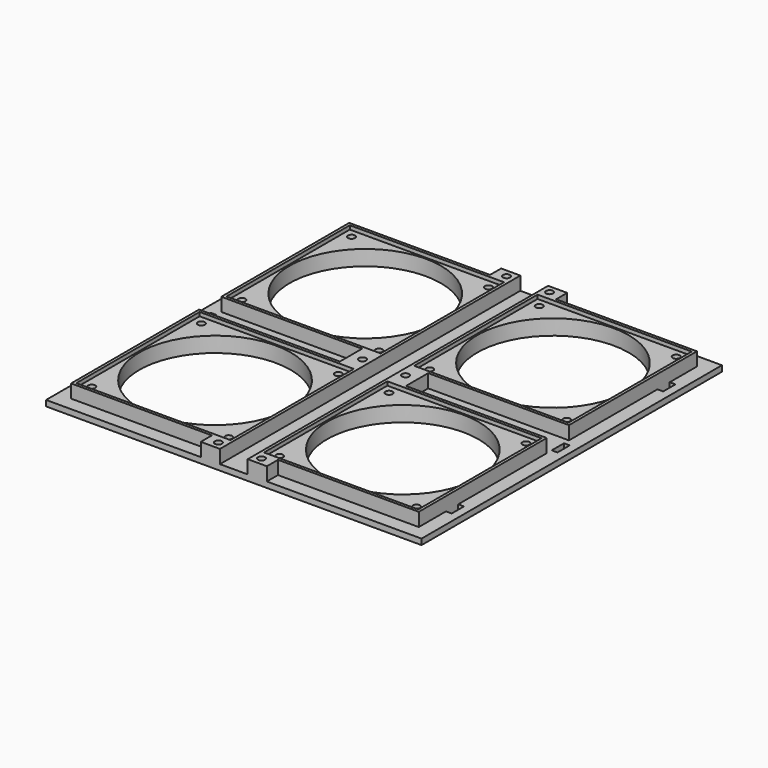
from build123d import *

# Parameters (mm, degrees)
SKETCH009_W     = 98
SKETCH009_H     = 98
PAD003_DEPTH    = 3
SKETCH006_W     = 83.5
SKETCH006_H     = 83.5
PAD002_DEPTH    = 7
SKETCH011_R     = 39.5
POCKET007_DEPTH = 10
SKETCH007_W     = 80.5
SKETCH007_H     = 80.5
POCKET004_DEPTH = 2
SKETCH010_R     = 1.85
POCKET006_DEPTH = 8
SKETCH008_R     = 2.75
POCKET005_DEPTH = 5
CHAMFER001_SIZE = 0.5
SKETCH015_W     = 98
SKETCH015_H     = 98
PAD005_DEPTH    = 3
SKETCH012_W     = 83.5
SKETCH012_H     = 83.5
PAD004_DEPTH    = 7
SKETCH017_R     = 39.5
POCKET011_DEPTH = 10
SKETCH013_W     = 80.5
SKETCH013_H     = 80.5
POCKET008_DEPTH = 2
SKETCH016_R     = 1.85
POCKET010_DEPTH = 8
SKETCH014_R     = 2.75
POCKET009_DEPTH = 5
CHAMFER002_SIZE = 0.5
SKETCH021_W     = 98
SKETCH021_H     = 98
PAD007_DEPTH    = 3
SKETCH018_W     = 83.5
SKETCH018_H     = 83.5
PAD006_DEPTH    = 7
SKETCH023_R     = 39.5
POCKET015_DEPTH = 10
SKETCH019_W     = 80.5
SKETCH019_H     = 80.5
POCKET012_DEPTH = 2
SKETCH022_R     = 1.85
POCKET014_DEPTH = 8
SKETCH020_R     = 2.75
POCKET013_DEPTH = 5
CHAMFER003_SIZE = 0.5
SKETCH_W        = 98
SKETCH_H        = 98
PAD_DEPTH       = 3
SKETCH001_W     = 83.5
SKETCH001_H     = 83.5
PAD001_DEPTH    = 7
SKETCH002_R     = 39.5
POCKET_DEPTH    = 10
SKETCH003_W     = 80.5
SKETCH003_H     = 80.5
POCKET001_DEPTH = 2
SKETCH004_R     = 1.85
POCKET002_DEPTH = 8
SKETCH005_R     = 2.75
POCKET003_DEPTH = 5
CHAMFER_SIZE    = 0.5
SKETCH024_W     = 3
SKETCH024_H     = 8
POCKET016_DEPTH = 5
SKETCH025_W     = 10
SKETCH025_H     = 7
PAD008_DEPTH    = 14.5
SKETCH026_W     = 10
SKETCH026_H     = 7
PAD009_DEPTH    = 7.25
SKETCH027_W     = 10
SKETCH027_H     = 7
PAD010_DEPTH    = 7.25
SKETCH028_R     = 1.85
POCKET017_DEPTH = 10
SKETCH029_R     = 2.75
POCKET018_DEPTH = 5
CHAMFER004_SIZE = 0.5
CHAMFER005_SIZE = 0.8


with BuildPart() as body001:
    # Sketch009 → Pad003 (new body)
    with BuildSketch(Plane.XY):
        Rectangle(SKETCH009_W, SKETCH009_H)
    extrude(amount=PAD003_DEPTH)

    # Sketch006 (on Face6 of Pad003) → Pad002 (join)
    with BuildSketch(Plane.XY.offset(3)):
        Rectangle(SKETCH006_W, SKETCH006_H)
    extrude(amount=PAD002_DEPTH)

    # Sketch011 (on Face11 of Pad002) → Pocket007 (cut)
    with BuildSketch(Plane.XY.offset(10)):
        Circle(SKETCH011_R)
    extrude(amount=-POCKET007_DEPTH, mode=Mode.SUBTRACT)

    # Sketch007 (on Face12 of Pocket007) → Pocket004 (cut)
    with BuildSketch(Plane.XY.offset(10)):
        Rectangle(SKETCH007_W, SKETCH007_H)
    extrude(amount=-POCKET004_DEPTH, mode=Mode.SUBTRACT)

    # Sketch010 (on Face12 of Pocket004) → Pocket006 (cut)
    with BuildSketch(Plane.XY.offset(8)):
        with Locations((-35.75, 35.75)):
            Circle(SKETCH010_R)
        with Locations((35.75, 35.75)):
            Circle(SKETCH010_R)
        with Locations((35.75, -35.75)):
            Circle(SKETCH010_R)
        with Locations((-35.75, -35.75)):
            Circle(SKETCH010_R)
    extrude(amount=-POCKET006_DEPTH, mode=Mode.SUBTRACT)

    # Sketch008 (on Face4 of Pocket006) → Pocket005 (cut)
    with BuildSketch(Plane(origin=(0, 0, 0), x_dir=(1, 0, 0), z_dir=(0, 0, -1))):
        with Locations((-35.75, 35.75)):
            Circle(SKETCH008_R)
        with Locations((35.75, 35.75)):
            Circle(SKETCH008_R)
        with Locations((35.75, -35.75)):
            Circle(SKETCH008_R)
        with Locations((-35.75, -35.75)):
            Circle(SKETCH008_R)
    extrude(amount=-POCKET005_DEPTH, mode=Mode.SUBTRACT)

    # Chamfer001
    chamfer001_edges = [body001.edges().sort_by_distance(p)[0] for p in [
        (33, 35.75, 0),
        (33, -35.75, 0),
        (-38.5, -35.75, 0),
        (-38.5, 35.75, 0),
    ]]
    chamfer(chamfer001_edges, length=CHAMFER001_SIZE)


with BuildPart() as body001_1:
    # Body001 placement: moved
    add(body001.part.moved(Location((98, 0, 0))))


with BuildPart() as body002:
    # Sketch015 → Pad005 (new body)
    with BuildSketch(Plane.XY):
        Rectangle(SKETCH015_W, SKETCH015_H)
    extrude(amount=PAD005_DEPTH)

    # Sketch012 (on Face6 of Pad005) → Pad004 (join)
    with BuildSketch(Plane.XY.offset(3)):
        Rectangle(SKETCH012_W, SKETCH012_H)
    extrude(amount=PAD004_DEPTH)

    # Sketch017 (on Face11 of Pad004) → Pocket011 (cut)
    with BuildSketch(Plane.XY.offset(10)):
        Circle(SKETCH017_R)
    extrude(amount=-POCKET011_DEPTH, mode=Mode.SUBTRACT)

    # Sketch013 (on Face12 of Pocket011) → Pocket008 (cut)
    with BuildSketch(Plane.XY.offset(10)):
        Rectangle(SKETCH013_W, SKETCH013_H)
    extrude(amount=-POCKET008_DEPTH, mode=Mode.SUBTRACT)

    # Sketch016 (on Face12 of Pocket008) → Pocket010 (cut)
    with BuildSketch(Plane.XY.offset(8)):
        with Locations((-35.75, 35.75)):
            Circle(SKETCH016_R)
        with Locations((35.75, 35.75)):
            Circle(SKETCH016_R)
        with Locations((35.75, -35.75)):
            Circle(SKETCH016_R)
        with Locations((-35.75, -35.75)):
            Circle(SKETCH016_R)
    extrude(amount=-POCKET010_DEPTH, mode=Mode.SUBTRACT)

    # Sketch014 (on Face4 of Pocket010) → Pocket009 (cut)
    with BuildSketch(Plane(origin=(0, 0, 0), x_dir=(1, 0, 0), z_dir=(0, 0, -1))):
        with Locations((-35.75, 35.75)):
            Circle(SKETCH014_R)
        with Locations((35.75, 35.75)):
            Circle(SKETCH014_R)
        with Locations((35.75, -35.75)):
            Circle(SKETCH014_R)
        with Locations((-35.75, -35.75)):
            Circle(SKETCH014_R)
    extrude(amount=-POCKET009_DEPTH, mode=Mode.SUBTRACT)

    # Chamfer002
    chamfer002_edges = [body002.edges().sort_by_distance(p)[0] for p in [
        (33, 35.75, 0),
        (33, -35.75, 0),
        (-38.5, -35.75, 0),
        (-38.5, 35.75, 0),
    ]]
    chamfer(chamfer002_edges, length=CHAMFER002_SIZE)


with BuildPart() as body002_1:
    # Body002 placement: moved
    add(body002.part.moved(Location((0, 98, 0))))


with BuildPart() as body003:
    # Sketch021 → Pad007 (new body)
    with BuildSketch(Plane.XY):
        Rectangle(SKETCH021_W, SKETCH021_H)
    extrude(amount=PAD007_DEPTH)

    # Sketch018 (on Face6 of Pad007) → Pad006 (join)
    with BuildSketch(Plane.XY.offset(3)):
        Rectangle(SKETCH018_W, SKETCH018_H)
    extrude(amount=PAD006_DEPTH)

    # Sketch023 (on Face11 of Pad006) → Pocket015 (cut)
    with BuildSketch(Plane.XY.offset(10)):
        Circle(SKETCH023_R)
    extrude(amount=-POCKET015_DEPTH, mode=Mode.SUBTRACT)

    # Sketch019 (on Face12 of Pocket015) → Pocket012 (cut)
    with BuildSketch(Plane.XY.offset(10)):
        Rectangle(SKETCH019_W, SKETCH019_H)
    extrude(amount=-POCKET012_DEPTH, mode=Mode.SUBTRACT)

    # Sketch022 (on Face12 of Pocket012) → Pocket014 (cut)
    with BuildSketch(Plane.XY.offset(8)):
        with Locations((-35.75, 35.75)):
            Circle(SKETCH022_R)
        with Locations((35.75, 35.75)):
            Circle(SKETCH022_R)
        with Locations((35.75, -35.75)):
            Circle(SKETCH022_R)
        with Locations((-35.75, -35.75)):
            Circle(SKETCH022_R)
    extrude(amount=-POCKET014_DEPTH, mode=Mode.SUBTRACT)

    # Sketch020 (on Face4 of Pocket014) → Pocket013 (cut)
    with BuildSketch(Plane(origin=(0, 0, 0), x_dir=(1, 0, 0), z_dir=(0, 0, -1))):
        with Locations((-35.75, 35.75)):
            Circle(SKETCH020_R)
        with Locations((35.75, 35.75)):
            Circle(SKETCH020_R)
        with Locations((35.75, -35.75)):
            Circle(SKETCH020_R)
        with Locations((-35.75, -35.75)):
            Circle(SKETCH020_R)
    extrude(amount=-POCKET013_DEPTH, mode=Mode.SUBTRACT)

    # Chamfer003
    chamfer003_edges = [body003.edges().sort_by_distance(p)[0] for p in [
        (33, 35.75, 0),
        (33, -35.75, 0),
        (-38.5, -35.75, 0),
        (-38.5, 35.75, 0),
    ]]
    chamfer(chamfer003_edges, length=CHAMFER003_SIZE)


with BuildPart() as body003_1:
    # Body003 placement: moved
    add(body003.part.moved(Location((98, 98, 0))))


with BuildPart() as body004:
    # Sketch → Pad (new body)
    with BuildSketch(Plane.XY):
        Rectangle(SKETCH_W, SKETCH_H)
    extrude(amount=PAD_DEPTH)

    # Sketch001 (on Face6 of Pad) → Pad001 (join)
    with BuildSketch(Plane.XY.offset(3)):
        Rectangle(SKETCH001_W, SKETCH001_H)
    extrude(amount=PAD001_DEPTH)

    # Sketch002 (on Face11 of Pad001) → Pocket (cut)
    with BuildSketch(Plane.XY.offset(10)):
        Circle(SKETCH002_R)
    extrude(amount=-POCKET_DEPTH, mode=Mode.SUBTRACT)

    # Sketch003 (on Face12 of Pocket) → Pocket001 (cut)
    with BuildSketch(Plane.XY.offset(10)):
        Rectangle(SKETCH003_W, SKETCH003_H)
    extrude(amount=-POCKET001_DEPTH, mode=Mode.SUBTRACT)

    # Sketch004 (on Face12 of Pocket001) → Pocket002 (cut)
    with BuildSketch(Plane.XY.offset(8)):
        with Locations((-35.75, 35.75)):
            Circle(SKETCH004_R)
        with Locations((35.75, 35.75)):
            Circle(SKETCH004_R)
        with Locations((35.75, -35.75)):
            Circle(SKETCH004_R)
        with Locations((-35.75, -35.75)):
            Circle(SKETCH004_R)
    extrude(amount=-POCKET002_DEPTH, mode=Mode.SUBTRACT)

    # Sketch005 (on Face4 of Pocket002) → Pocket003 (cut)
    with BuildSketch(Plane(origin=(0, 0, 0), x_dir=(1, 0, 0), z_dir=(0, 0, -1))):
        with Locations((-35.75, 35.75)):
            Circle(SKETCH005_R)
        with Locations((35.75, 35.75)):
            Circle(SKETCH005_R)
        with Locations((35.75, -35.75)):
            Circle(SKETCH005_R)
        with Locations((-35.75, -35.75)):
            Circle(SKETCH005_R)
    extrude(amount=-POCKET003_DEPTH, mode=Mode.SUBTRACT)

    # Chamfer
    chamfer_edges = [body004.edges().sort_by_distance(p)[0] for p in [
        (33, 35.75, 0),
        (33, -35.75, 0),
        (-38.5, -35.75, 0),
        (-38.5, 35.75, 0),
    ]]
    chamfer(chamfer_edges, length=CHAMFER_SIZE)

    # Fusion: union Body001, Body002, Body003
    add(body001_1.part)
    add(body002_1.part)
    add(body003_1.part)

    # Sketch024 (on Face35 of BaseFeature) → Pocket016 (cut)
    with BuildSketch(Plane.XY.offset(3)):
        with Locations((-43.25, -20)):
            Rectangle(SKETCH024_W, SKETCH024_H)
        with Locations((141.25, -20)):
            Rectangle(SKETCH024_W, SKETCH024_H)
        with Locations((141.25, 49)):
            Rectangle(SKETCH024_W, SKETCH024_H)
        with Locations((-43.25, 49)):
            Rectangle(SKETCH024_W, SKETCH024_H)
        with Locations((-43.25, 118)):
            Rectangle(SKETCH024_W, SKETCH024_H)
        with Locations((141.25, 118)):
            Rectangle(SKETCH024_W, SKETCH024_H)
    extrude(amount=-POCKET016_DEPTH, mode=Mode.SUBTRACT)

    # Sketch025 (on Face98 of Pocket016) → Pad008 (join)
    with BuildSketch(Plane(origin=(0, 41.75, 0), x_dir=(-1, 0, 0), z_dir=(0, 1, 0))):
        with Locations((-61.25, 6.5)):
            Rectangle(SKETCH025_W, SKETCH025_H)
        with Locations((-36.75, 6.5)):
            Rectangle(SKETCH025_W, SKETCH025_H)
    extrude(amount=PAD008_DEPTH)

    # Sketch026 (on Face56 of Pad008) → Pad009 (join)
    with BuildSketch(Plane.XZ.offset(41.75)):
        with Locations((36.75, 6.5)):
            Rectangle(SKETCH026_W, SKETCH026_H)
        with Locations((61.25, 6.5)):
            Rectangle(SKETCH026_W, SKETCH026_H)
    extrude(amount=PAD009_DEPTH)

    # Sketch027 (on Face92 of Pad009) → Pad010 (join)
    with BuildSketch(Plane(origin=(0, 139.75, 0), x_dir=(-1, 0, 0), z_dir=(0, 1, 0))):
        with Locations((-61.25, 6.5)):
            Rectangle(SKETCH027_W, SKETCH027_H)
        with Locations((-36.75, 6.5)):
            Rectangle(SKETCH027_W, SKETCH027_H)
    extrude(amount=PAD010_DEPTH)

    # Sketch028 (on Face161 of Pad010) → Pocket017 (cut)
    with BuildSketch(Plane.XY.offset(10)):
        with Locations((37.75, -45)):
            Circle(SKETCH028_R)
        with Locations((60.25, -45)):
            Circle(SKETCH028_R)
        with Locations((37.75, 143)):
            Circle(SKETCH028_R)
        with Locations((60.25, 143)):
            Circle(SKETCH028_R)
        with Locations((37.75, 49)):
            Circle(SKETCH028_R)
        with Locations((60.25, 49)):
            Circle(SKETCH028_R)
    extrude(amount=-POCKET017_DEPTH, mode=Mode.SUBTRACT)

    # Sketch029 (on Face1 of Pocket017) → Pocket018 (cut)
    with BuildSketch(Plane(origin=(0, 0, 0), x_dir=(1, 0, 0), z_dir=(0, 0, -1))):
        with Locations((37.75, 45)):
            Circle(SKETCH029_R)
        with Locations((60.25, 45)):
            Circle(SKETCH029_R)
        with Locations((37.75, -49)):
            Circle(SKETCH029_R)
        with Locations((60.25, -49)):
            Circle(SKETCH029_R)
        with Locations((37.75, -143)):
            Circle(SKETCH029_R)
        with Locations((60.25, -143)):
            Circle(SKETCH029_R)
    extrude(amount=-POCKET018_DEPTH, mode=Mode.SUBTRACT)

    # Chamfer004
    chamfer004_edges = [body004.edges().sort_by_distance(p)[0] for p in [
        (35, -45, 0),
        (57.5, -45, 0),
        (37.75, 46.25, 0),
        (60.25, 46.25, 0),
        (35, 143, 0),
        (57.5, 143, 0),
    ]]
    chamfer(chamfer004_edges, length=CHAMFER004_SIZE)

    # Chamfer005
    chamfer005_edges = [body004.edges().sort_by_distance(p)[0] for p in [
        (-37.6, 133.75, 5),
        (33.9, 133.75, 5),
        (35.9, 143, 5),
        (58.4, 143, 5),
        (60.4, 133.75, 5),
        (131.9, 133.75, 5),
        (131.9, 62.25, 5),
        (60.4, 62.25, 5),
        (33.9, 62.25, 5),
        (131.9, 35.75, 5),
        (60.4, 35.75, 5),
        (58.4, 49, 5),
        (-37.6, 62.25, 5),
        (35.9, 49, 5),
        (33.9, 35.75, 5),
        (-37.6, 35.75, 5),
        (-37.6, -35.75, 5),
        (33.9, -35.75, 5),
        (60.4, -35.75, 5),
        (35.9, -45, 5),
        (131.9, -35.75, 5),
        (58.4, -45, 5),
    ]]
    chamfer(chamfer005_edges, length=CHAMFER005_SIZE)


solid = body004.part
